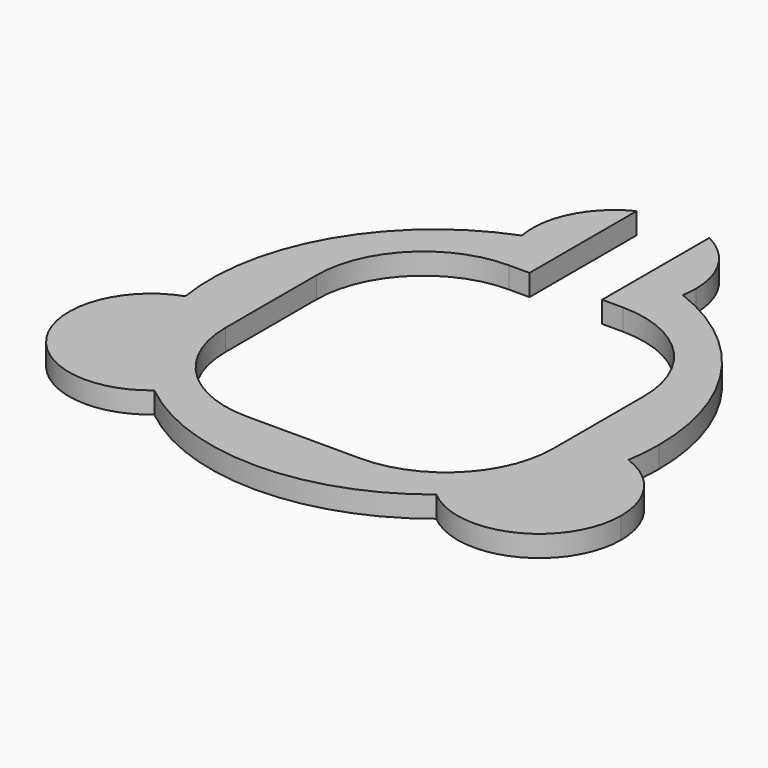
from build123d import *

# Parameters (mm, degrees)
F2_DEPTH = 3
F1_W     = 10.2
F1_H     = 6.1991158426
F1_H_2   = 23.2707020342
F3_DEPTH = 3


with BuildPart() as f2:
    # F0 (on Top) → F2 (new body)
    with BuildSketch(Plane.XY):
        with BuildLine():
            ThreePointArc((11.3067825639, 29.4007936636), (11.4515937375, 30.4459601281), (11.4999999642, 31.5))
            ThreePointArc((11.4999999642, 31.5), (-1.0540399207, 42.9515937721), (-11.3067826307, 29.4007936379))
            ThreePointArc((-11.3067826307, 29.4007936379), (-3.58e-08, 31.5), (11.3067825639, 29.4007936636))
        make_face()
        with BuildLine():
            ThreePointArc((11.3067825639, 29.4007936636), (-3.58e-08, 31.5), (-11.3067826307, 29.4007936379))
            ThreePointArc((-11.3067826307, 29.4007936379), (-2.27e-08, 20), (11.3067825639, 29.4007936636))
        make_face()
        with BuildLine():
            ThreePointArc((11.3067825639, 29.4007936636), (-2.27e-08, 20), (-11.3067826307, 29.4007936379))
            ThreePointArc((-11.3067826307, 29.4007936379), (-27.2798002371, 15.749999969), (-31.1152254861, -4.9084358964))
            ThreePointArc((-31.1152254861, -4.9084358964), (-20.641178009, -6.3596488455), (-15.7798002013, -15.750000031))
            ThreePointArc((-15.7798002013, -15.750000031), (-16.8354091384, -20.5629716001), (-19.8084428665, -24.4923578123))
            ThreePointArc((-19.8084428665, -24.4923578123), (3.58e-08, -31.5), (19.8084429222, -24.4923577673))
            ThreePointArc((19.8084429222, -24.4923577673), (17.320508087, -9.9999999803), (31.1152254973, -4.9084358257))
            ThreePointArc((31.1152254973, -4.9084358257), (31.4036590477, -2.4617470256), (31.5, 0))
            ThreePointArc((31.5, 0), (25.965492974, 17.8337650152), (11.3067825639, 29.4007936636))
        make_face()
        with BuildLine():
            ThreePointArc((-19.8084428665, -24.4923578123), (-27.2798002013, -15.750000031), (-31.1152254861, -4.9084358964))
            ThreePointArc((-31.1152254861, -4.9084358964), (-37.2390923383, -21.5000000423), (-19.8084428665, -24.4923578123))
        make_face()
        with BuildLine():
            ThreePointArc((-15.7798002013, -15.750000031), (-20.641178009, -6.3596488455), (-31.1152254861, -4.9084358964))
            ThreePointArc((-31.1152254861, -4.9084358964), (-27.2798002013, -15.750000031), (-19.8084428665, -24.4923578123))
            ThreePointArc((-19.8084428665, -24.4923578123), (-16.8354091384, -20.5629716001), (-15.7798002013, -15.750000031))
        make_face()
        with BuildLine():
            ThreePointArc((19.8084429222, -24.4923577673), (27.2798002371, -15.749999969), (31.1152254973, -4.9084358257))
            ThreePointArc((31.1152254973, -4.9084358257), (17.320508087, -9.9999999803), (19.8084429222, -24.4923577673))
        make_face()
        with BuildLine():
            ThreePointArc((38.7798002371, -15.749999969), (36.6701514151, -9.111377766), (31.1152254973, -4.9084358257))
            ThreePointArc((31.1152254973, -4.9084358257), (27.2798002371, -15.749999969), (19.8084429222, -24.4923577673))
            ThreePointArc((19.8084429222, -24.4923577673), (32.0927718181, -26.1943910265), (38.7798002371, -15.749999969))
        make_face()
    extrude(amount=F2_DEPTH)

    # F1 (on Top) → F3 (cut)
    with BuildSketch(Plane.XY):
        with BuildLine():
            Line((5.1, 23), (5.1, 16.8008841574))
            Line((5.1, 16.8008841574), (-5.1, 16.8008841574))
            Line((-5.1, 16.8008841574), (-5.1, 23))
            Line((-5.1, 23), (-8, 23))
            ThreePointArc((-8, 23), (-18.6066017178, 18.6066017178), (-23, 8))
            Line((-23, 8), (-23, -8))
            ThreePointArc((-23, -8), (-18.6066017178, -18.6066017178), (-8, -23))
            Line((-8, -23), (8, -23))
            ThreePointArc((8, -23), (18.6066017178, -18.6066017178), (23, -8))
            Line((23, -8), (23, 8))
            ThreePointArc((23, 8), (18.6066017178, 18.6066017178), (8, 23))
            Line((8, 23), (5.1, 23))
        make_face()
        with Locations((0, 19.9004420787)):
            Rectangle(F1_W, F1_H)
        with Locations((0, 34.6353510171)):
            Rectangle(F1_W, F1_H_2)
    extrude(amount=F3_DEPTH, mode=Mode.SUBTRACT)


solid = f2.part
